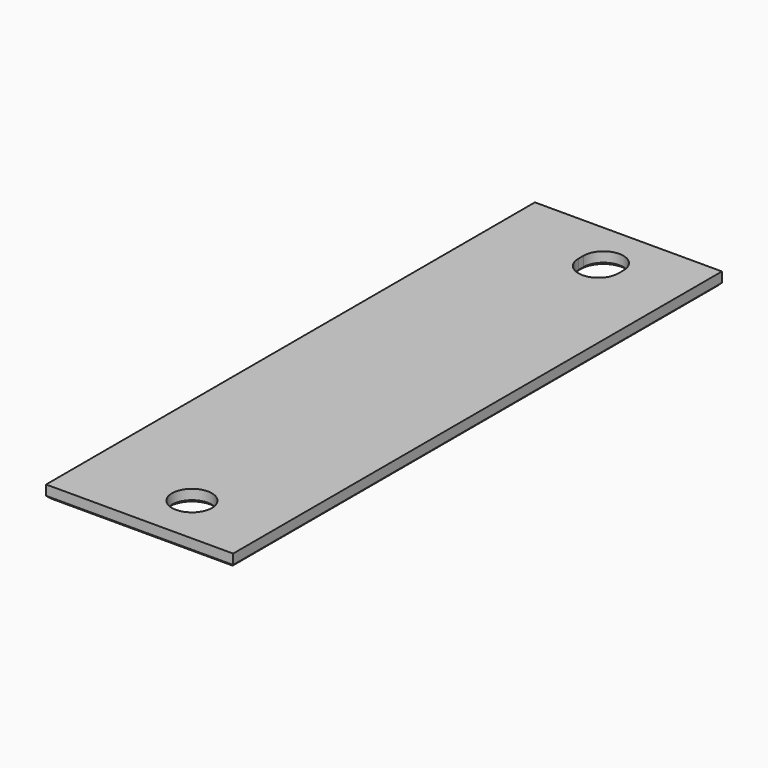
from build123d import *

# Parameters (mm, degrees)
F0_W    = 15
F0_H    = 49
F0_R    = 1.6
F3_SIZE = 0.2


with BuildPart() as f2:
    # F2: sweep along a path in F1
    with BuildLine(Plane.XZ) as f2_path:
        Line((0, 0), (0, 1))
    # F0 (on Top) → F2 (sweep)
    with BuildSketch(Plane.XY):
        with Locations((-1, 0)):
            Rectangle(F0_W, F0_H)
        with Locations((0, -20.5)):
            Circle(F0_R, mode=Mode.SUBTRACT)
        with BuildLine():
            Line((-1.6, 20.25), (-1.6, 20.75))
            ThreePointArc((-1.6, 20.75), (0, 22.35), (1.6, 20.75))
            Line((1.6, 20.75), (1.6, 20.25))
            ThreePointArc((1.6, 20.25), (0, 18.65), (-1.6, 20.25))
        make_face(mode=Mode.SUBTRACT)
    sweep(path=f2_path.line)

    # F3
    f3_edges = [f2.edges().sort_by_distance(p)[0] for p in [
        (6.5, 0, 0),
        (-1, -24.5, 0),
        (-1, 24.5, 0),
        (-8.5, 0, 0),
        (-1.6, -20.5, 0),
        (0, 18.65, 0),
        (1.6, 20.5, 0),
        (0, 22.35, 0),
        (-1.6, 20.5, 0),
    ]]
    chamfer(f3_edges, length=F3_SIZE)


solid = f2.part
